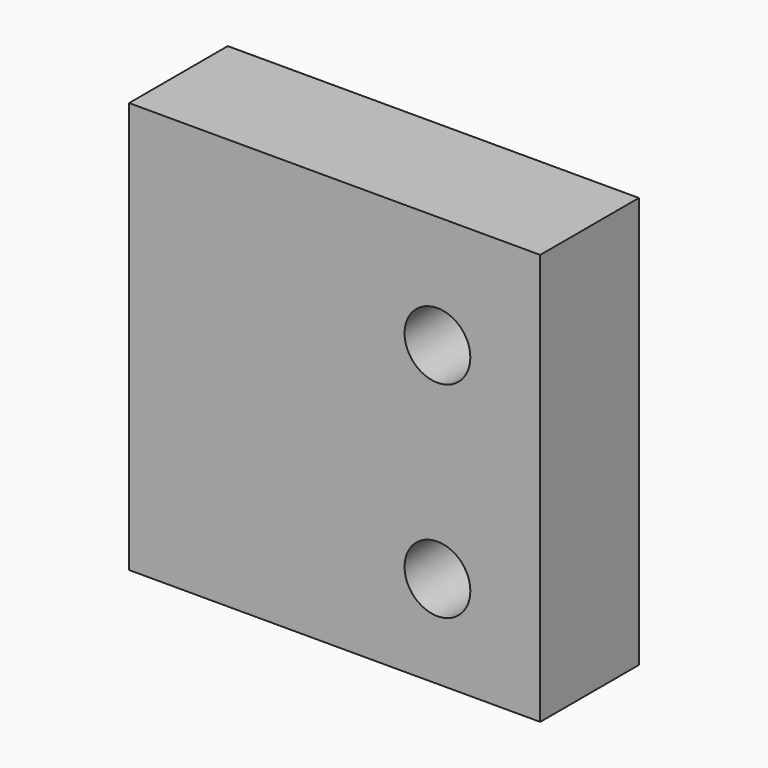
from build123d import *

# Parameters (mm, degrees)
CYLINDER110_R     = 1.6
CYLINDER110_DEPTH = 10
CYLINDER111_R     = 1.6
CYLINDER111_DEPTH = 10
BOX049_W          = 20
BOX049_H          = 6
BOX049_DEPTH      = 20


with BuildPart() as cylinder110:
    # Cylinder110 → Cylinder110 (new body)
    with BuildSketch(Plane(origin=(320, 26, 0), x_dir=(1, 0, 0), z_dir=(0, -1, 0))):
        Circle(CYLINDER110_R)
    extrude(amount=CYLINDER110_DEPTH)


with BuildPart() as fusion096:
    # Cylinder111 → Cylinder111 (new body)
    with BuildSketch(Plane(origin=(320, 26, 10), x_dir=(1, 0, 0), z_dir=(0, -1, 0))):
        Circle(CYLINDER111_R)
    extrude(amount=CYLINDER111_DEPTH)

    # Fusion096: union Cylinder110
    add(cylinder110.part)


with BuildPart() as fusion096_1:
    # Fusion096 placement: moved
    add(fusion096.part.moved(Location((15, -1.5, 6))))


with BuildPart() as cut057:
    # Box049 → Box049 (new body)
    with BuildSketch(Plane(origin=(320, 18.5, 1.5), x_dir=(1, 0, 0), z_dir=(0, 0, 1))):
        with Locations((10, 3)):
            Rectangle(BOX049_W, BOX049_H)
    extrude(amount=BOX049_DEPTH)

    # Cut057: cut Fusion096
    add(fusion096_1.part, mode=Mode.SUBTRACT)


with BuildPart() as cut057_1:
    # Cut057 placement: moved
    add(cut057.part.moved(Location((1.5, -18.5, -1.5))))


solid = cut057_1.part
